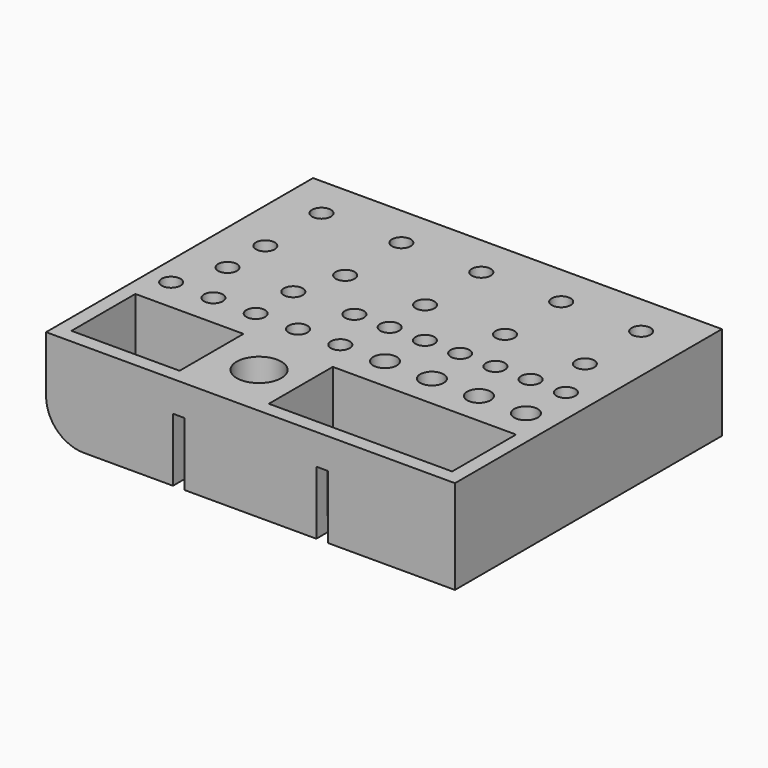
from build123d import *

# Parameters (mm, degrees)
F0_W     = 87
F0_H     = 71
F1_DEPTH = 20
F2_W     = 2.5
F2_H     = 10
F3_DEPTH = 13.5
F4_R     = 8
F5_W     = 23
F5_H     = 17
F5_W_2   = 39
F5_R     = 4.75
F5_R_2   = 2
F5_R_3   = 2.5
F6_DEPTH = 17


with BuildPart() as f1:
    # F0 (on Top) → F1 (new body)
    with BuildSketch(Plane.XY):
        Rectangle(F0_W, F0_H)
    extrude(amount=F1_DEPTH)

    # F2 (on face) → F3 (cut)
    with BuildSketch(Plane(origin=(0, 0, 0), x_dir=(1, 0, 0), z_dir=(0, 0, -1))):
        with Locations((-15.25, 30.5)):
            Rectangle(F2_W, F2_H)
        with Locations((15.25, 30.5)):
            Rectangle(F2_W, F2_H)
        with Locations((-15.25, -30.5)):
            Rectangle(F2_W, F2_H)
        with Locations((15.25, -30.5)):
            Rectangle(F2_W, F2_H)
    extrude(amount=-F3_DEPTH, mode=Mode.SUBTRACT)

    # F4
    f4_edges = [f1.edges().sort_by_distance(p)[0] for p in [
        (-43.5, 0, 0),
    ]]
    fillet(f4_edges, radius=F4_R)

    # F5 (on face) → F6 (cut)
    with BuildSketch(Plane.XY.offset(20)):
        with Locations((-29, -24)):
            Rectangle(F5_W, F5_H)
        with Locations((21, -24)):
            Rectangle(F5_W_2, F5_H)
        with Locations((-7.390061, -24)):
            Circle(F5_R)
        with Locations((-38.5, -8.499949)):
            Circle(F5_R_2)
        with Locations((-29.5, -8.499949)):
            Circle(F5_R_2)
        with Locations((-20.5, -8.499949)):
            Circle(F5_R_2)
        with Locations((-11.5, -8.499949)):
            Circle(F5_R_2)
        with Locations((-2.5, -8.499949)):
            Circle(F5_R_2)
        with Locations((7, -8.499949)):
            Circle(F5_R_3)
        with Locations((17, -8.499949)):
            Circle(F5_R_3)
        with Locations((27, -8.499949)):
            Circle(F5_R_3)
        with Locations((37, -8.499949)):
            Circle(F5_R_3)
        with Locations((37.5, 1.500051)):
            Circle(F5_R_2)
        with Locations((30, 1.500051)):
            Circle(F5_R_2)
        with Locations((22.5, 1.500051)):
            Circle(F5_R_2)
        with Locations((15, 1.500051)):
            Circle(F5_R_2)
        with Locations((7.5, 1.500051)):
            Circle(F5_R_2)
        with Locations((0, 1.500051)):
            Circle(F5_R_2)
        with Locations((-7.5, 1.500051)):
            Circle(F5_R_2)
        with Locations((-20.5, 1.500051)):
            Circle(F5_R_2)
        with Locations((-34.5, 1.500051)):
            Circle(F5_R_2)
        with Locations((-34.460917, 11.500051)):
            Circle(F5_R_2)
        with Locations((-34.5, 26.5)):
            Circle(F5_R_2)
        with Locations((-17.5, 26.5)):
            Circle(F5_R_2)
        with Locations((-17.460917, 11.500051)):
            Circle(F5_R_2)
        with Locations((-0.460917, 11.500051)):
            Circle(F5_R_2)
        with Locations((-0.5, 26.5)):
            Circle(F5_R_2)
        with Locations((16.5, 26.5)):
            Circle(F5_R_2)
        with Locations((16.539083, 11.500051)):
            Circle(F5_R_2)
        with Locations((33.539083, 11.500051)):
            Circle(F5_R_2)
        with Locations((33.5, 26.5)):
            Circle(F5_R_2)
    extrude(amount=-F6_DEPTH, mode=Mode.SUBTRACT)


solid = f1.part
